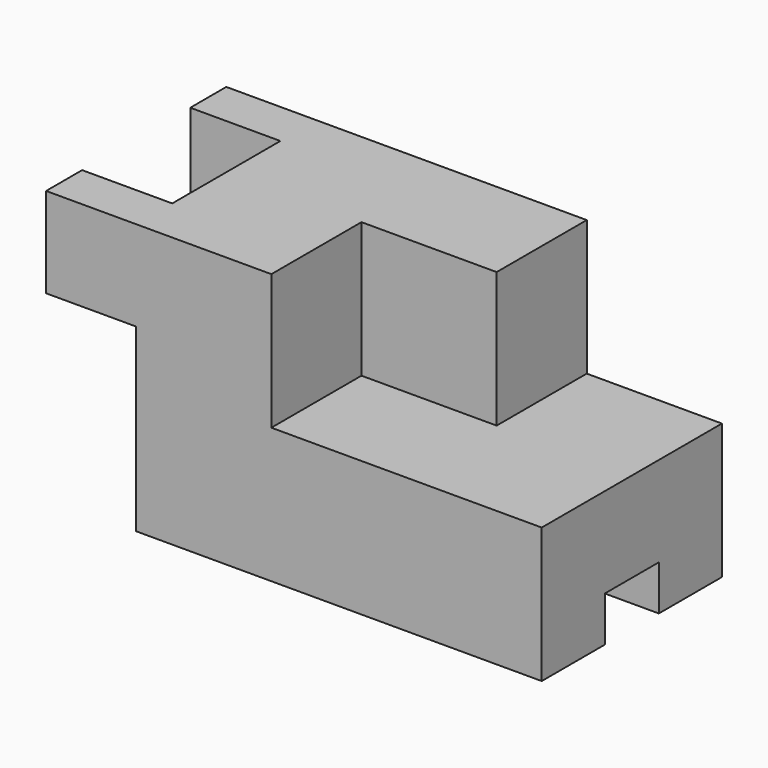
from build123d import *

# Parameters (mm, degrees)
F0_W     = 110
F0_H     = 50
F1_DEPTH = 60
F2_W     = 15
F2_H     = 20
F3_DEPTH = 110.001
F5_DEPTH = 30
F6_W     = 20
F6_H     = 40
F7_DEPTH = 50.001
F8_W     = 20
F8_H     = 30
F9_DEPTH = 60.001


with BuildPart() as f1:
    # F0 (on Top) → F1 (new body)
    with BuildSketch(Plane.XY):
        Rectangle(F0_W, F0_H)
    extrude(amount=F1_DEPTH)

    # F2 (on face) → F3 (cut, through all)
    with BuildSketch(Plane.YZ.offset(55)):
        Rectangle(F2_W, F2_H)
    extrude(amount=-F3_DEPTH, mode=Mode.SUBTRACT)

    # F4 (on face) → F5 (cut)
    with BuildSketch(Plane.XY.offset(60)):
        Polygon((55, 25), (25, 25), (25, 0), (-5, 0), (-5, -25), (55, -25), align=None)
    extrude(amount=-F5_DEPTH, mode=Mode.SUBTRACT)

    # F6 (on face) → F7 (cut, through all)
    with BuildSketch(Plane.XZ.offset(25)):
        with Locations((-45, 20)):
            Rectangle(F6_W, F6_H)
    extrude(amount=-F7_DEPTH, mode=Mode.SUBTRACT)

    # F8 (on face) → F9 (cut, through all)
    with BuildSketch(Plane.XY.offset(60)):
        with Locations((-45, 0)):
            Rectangle(F8_W, F8_H)
    extrude(amount=-F9_DEPTH, mode=Mode.SUBTRACT)


solid = f1.part
